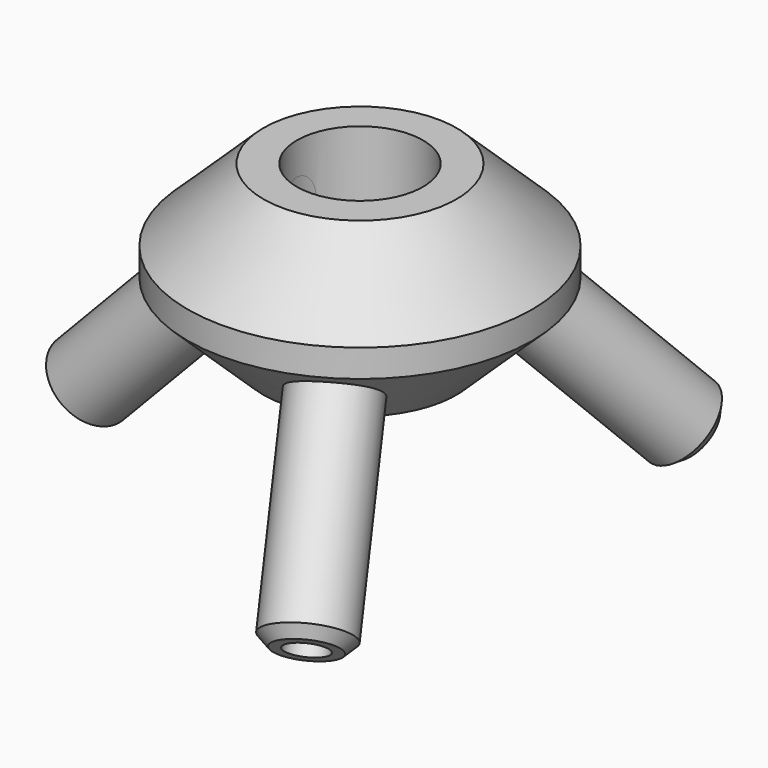
from build123d import *

# Parameters (mm, degrees)
F4_R     = 2.9
F5_DEPTH = 75.0134427933
F6_SIZE  = 1.5
F7_COUNT = 3


with BuildPart() as f1:
    # F0 (on Front) → F1 (revolve)
    with BuildSketch(Plane.XZ):
        Polygon((-9.15, 1), (-9.15, 25), (-14, 25), (-25, 14.5), (-25, 10.5), (-14, 0), (-10.15, 0), (-10.15, 1), align=None)
    revolve(axis=Axis((0, 0, 12.5), (0, 0, -1)))

    # F2 (on Front) → F3 (revolve)
    with BuildSketch(Plane.XZ):
        Polygon((-35.94647469, -20.5244732297), (-15.2322022896, 1.1761930946), (-10.7806652787, 5.8397080583), (-15.0484629892, 9.9135149637), (-19.5, 5.25), (-40.2142724005, -16.4506663243), align=None)
    revolve(axis=Axis((-29.8571362002, 0, -5.6003331622), (0.6904757467, 0, 0.7233555441)))

    # F4 (on face) → F5 (cut, through all)
    with BuildSketch(Plane(origin=(-27.3888669951, 0, -28.6930987567), x_dir=(0.7233555441, 0, -0.6904757467), z_dir=(-0.6904757467, 0, -0.7233555441))):
        with Locations((-17.7304307809, 0)):
            Circle(F4_R)
    extrude(amount=-F5_DEPTH, mode=Mode.SUBTRACT)

    # F6
    f6_edges = [f1.edges().sort_by_distance(p)[0] for p in [
        (-44.48207, 0, -12.376859),
    ]]
    chamfer(f6_edges, length=F6_SIZE)

    # F7: F1 ×3 about axis
    f7_axis = Axis((0, 0, 14.5), (0, 0, -1))


with BuildPart() as f1_1:
    add(f1.part)
    for i in range(1, F7_COUNT):
        add(f1.part.rotate(f7_axis, i * 360 / F7_COUNT))


solid = f1_1.part
